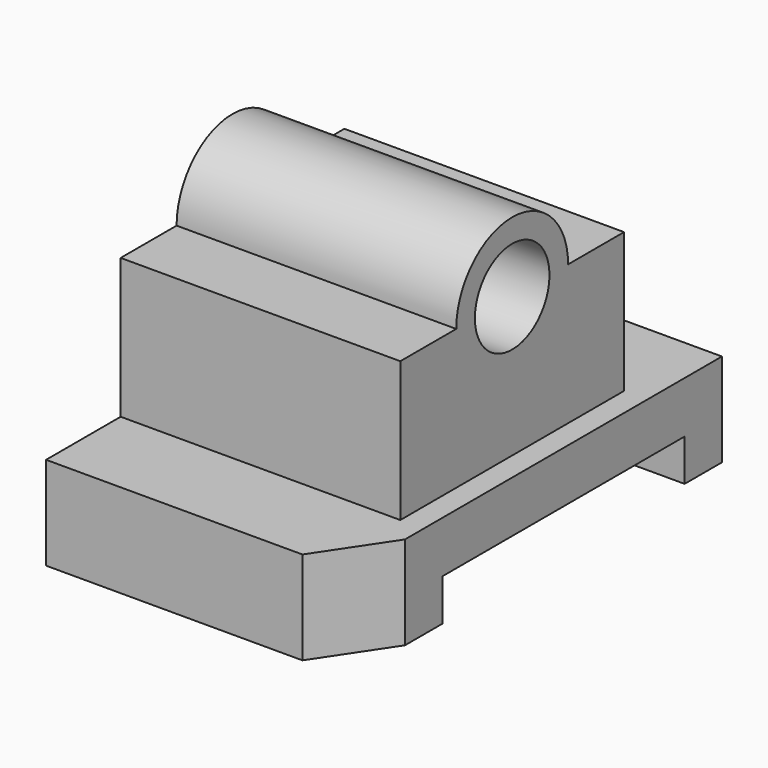
from build123d import *

# Parameters (mm, degrees)
F1_DEPTH = 65
F0_W     = 65
F0_H     = 8.9540635944
F2_DEPTH = 60
F3_W     = 65
F3_H     = 8.9540635944
F4_DEPTH = 100
F6_DEPTH = 25


with BuildPart() as f1:
    # F0 (on Right) → F1 (new body)
    with BuildSketch(Plane.YZ):
        Polygon((-30, -32.3655755222), (-50, -32.3655755222), (-50, -52.3655755222), (-25, -52.3655755222), (-25, -43.4115119278), (40, -43.4115119278), (40, -52.3655755222), (50, -52.3655755222), (50, -32.3655755222), (30, -32.3655755222), align=None)
    extrude(amount=F1_DEPTH)

    # F0 (on Right) → F2 (join)
    with BuildSketch(Plane.YZ):
        Polygon((-30, -32.3655755222), (-50, -32.3655755222), (-50, -52.3655755222), (-25, -52.3655755222), (-25, -43.4115119278), (40, -43.4115119278), (40, -52.3655755222), (50, -52.3655755222), (50, -32.3655755222), (30, -32.3655755222), align=None)
        with BuildLine():
            Line((-30, -2.3655755222), (-30, -32.3655755222))
            Line((-30, -32.3655755222), (30, -32.3655755222))
            Line((30, -32.3655755222), (30, -2.3655755222))
            Line((30, -2.3655755222), (15, -2.3655755222))
            ThreePointArc((15, -2.3655755222), (0, -17.3655755222), (-15, -2.3655755222))
            Line((-15, -2.3655755222), (-30, -2.3655755222))
        make_face()
        with Locations((7.5, -47.888543725)):
            Rectangle(F0_W, F0_H)
        with BuildLine():
            ThreePointArc((15, -2.3655755222), (0, 12.6344244778), (-15, -2.3655755222))
            Line((-15, -2.3655755222), (-10, -2.3655755222))
            ThreePointArc((-10, -2.3655755222), (0, 7.6344244778), (10, -2.3655755222))
            Line((10, -2.3655755222), (15, -2.3655755222))
        make_face()
        with BuildLine():
            Line((-10, -2.3655755222), (-15, -2.3655755222))
            ThreePointArc((-15, -2.3655755222), (0, -17.3655755222), (15, -2.3655755222))
            Line((15, -2.3655755222), (10, -2.3655755222))
            ThreePointArc((10, -2.3655755222), (0, -12.3655755222), (-10, -2.3655755222))
        make_face()
    extrude(amount=F2_DEPTH)

    # F3 (on face) → F4 (cut)
    with BuildSketch(Plane.YZ.offset(60)):
        with Locations((7.5, -47.888543725)):
            Rectangle(F3_W, F3_H)
    extrude(amount=-F4_DEPTH, mode=Mode.SUBTRACT)

    # F5 (on face) → F6 (cut)
    with BuildSketch(Plane.XY.offset(-32.3655755222)):
        Polygon((65, -35), (55, -50), (65, -50), align=None)
    extrude(amount=-F6_DEPTH, mode=Mode.SUBTRACT)


solid = f1.part
